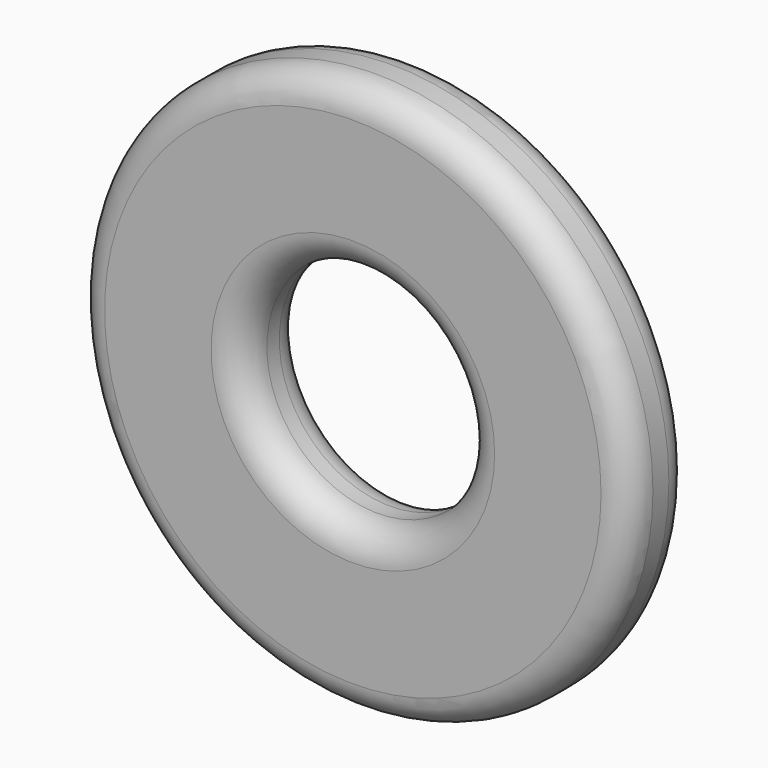
from build123d import *

# Parameters (mm, degrees)
F0_R     = 1.25
F0_R_2   = 0.5
F1_DEPTH = 0.175
F2_R     = 0.13
F3_R     = 0.14


with BuildPart() as f1:
    # F0 (on Front) → F1 (new body, symmetric)
    with BuildSketch(Plane.XZ):
        Circle(F0_R)
        Circle(F0_R_2, mode=Mode.SUBTRACT)
    extrude(amount=F1_DEPTH, both=True)

    # F2
    f2_edges = [f1.edges().sort_by_distance(p)[0] for p in [
        (-1.25, -0.175, 0),
        (-1.25, 0.175, 0),
    ]]
    fillet(f2_edges, radius=F2_R)

    # F3
    f3_edges = [f1.edges().sort_by_distance(p)[0] for p in [
        (-0.5, -0.175, 0),
        (-0.5, 0.175, 0),
    ]]
    fillet(f3_edges, radius=F3_R)


solid = f1.part
